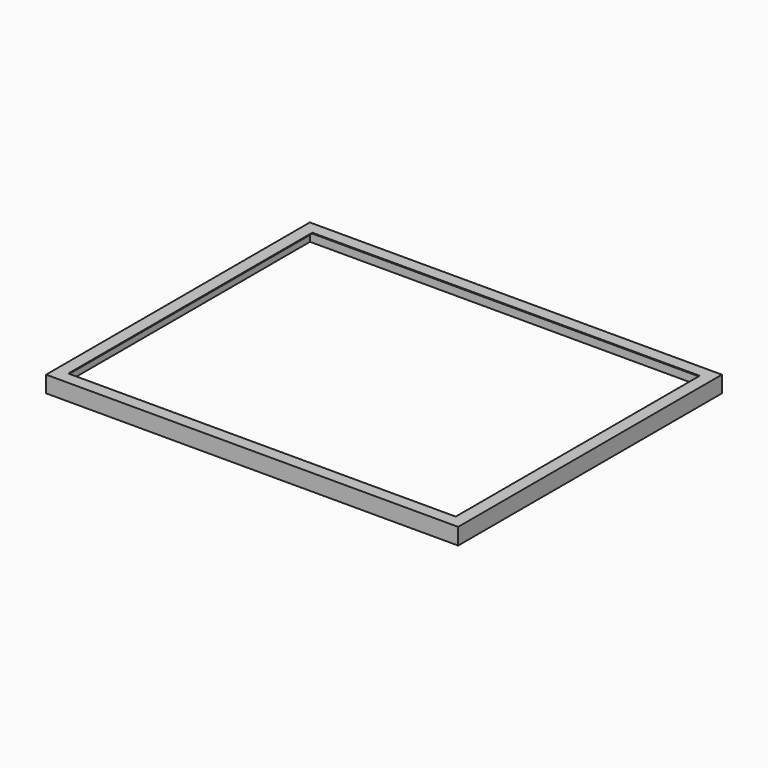
from build123d import *

# Parameters (mm, degrees)
F0_W     = 940
F0_H     = 2
F0_W_2   = 2
F0_H_2   = 28
F0_W_3   = 28
F1_DEPTH = 40
F0_H_3   = 740
F2_DEPTH = 2


with BuildPart() as f1:
    # F0 (on Top) → F1 (new body)
    with BuildSketch(Plane.XY):
        Polygon((119.6999707818, 869.6999302506), (121.6999707818, 869.6999302506), (121.6999707818, 897.6999302506), (149.6999707818, 897.6999302506), (149.6999707818, 899.6999302506), (119.6999707818, 899.6999302506), align=None)
        with Locations((619.6999707818, 898.6999302506)):
            Rectangle(F0_W, F0_H)
        Polygon((119.6999707818, 179.6999302506), (119.6999707818, 129.6999302506), (121.6999707818, 129.6999302506), (121.6999707818, 869.6999302506), (119.6999707818, 869.6999302506), align=None)
        Polygon((1117.6999707818, 897.6999302506), (1117.6999707818, 869.6999302506), (1119.6999707818, 869.6999302506), (1119.6999707818, 899.6999302506), (1089.6999707818, 899.6999302506), (1089.6999707818, 897.6999302506), align=None)
        Polygon((1117.6999707818, 869.6999302506), (1117.6999707818, 129.6999302506), (1119.6999707818, 129.6999302506), (1119.6999707818, 179.6999302506), (1119.6999707818, 869.6999302506), align=None)
        with Locations((1118.6999707818, 115.6999302506)):
            Rectangle(F0_W_2, F0_H_2)
        with Locations((1118.6999707818, 100.6999302506)):
            Rectangle(F0_W_2, F0_H)
        with Locations((1103.6999707818, 100.6999302506)):
            Rectangle(F0_W_3, F0_H)
        with Locations((619.6999707818, 100.6999302506)):
            Rectangle(F0_W, F0_H)
        with Locations((135.6999707818, 100.6999302506)):
            Rectangle(F0_W_3, F0_H)
        with Locations((120.6999707818, 100.6999302506)):
            Rectangle(F0_W_2, F0_H)
        with Locations((120.6999707818, 115.6999302506)):
            Rectangle(F0_W_2, F0_H_2)
    extrude(amount=-F1_DEPTH)

    # F0 (on Top) → F2 (join)
    with BuildSketch(Plane.XY):
        Polygon((121.6999707818, 129.6999302506), (121.6999707818, 101.6999302506), (149.6999707818, 101.6999302506), (1089.6999707818, 101.6999302506), (1117.6999707818, 101.6999302506), (1117.6999707818, 129.6999302506), (1117.6999707818, 869.6999302506), (1117.6999707818, 897.6999302506), (1089.6999707818, 897.6999302506), (149.6999707818, 897.6999302506), (121.6999707818, 897.6999302506), (121.6999707818, 869.6999302506), align=None)
        with Locations((619.6999707818, 499.6999302506)):
            Rectangle(F0_W, F0_H_3, mode=Mode.SUBTRACT)
    extrude(amount=-F2_DEPTH)


solid = f1.part
